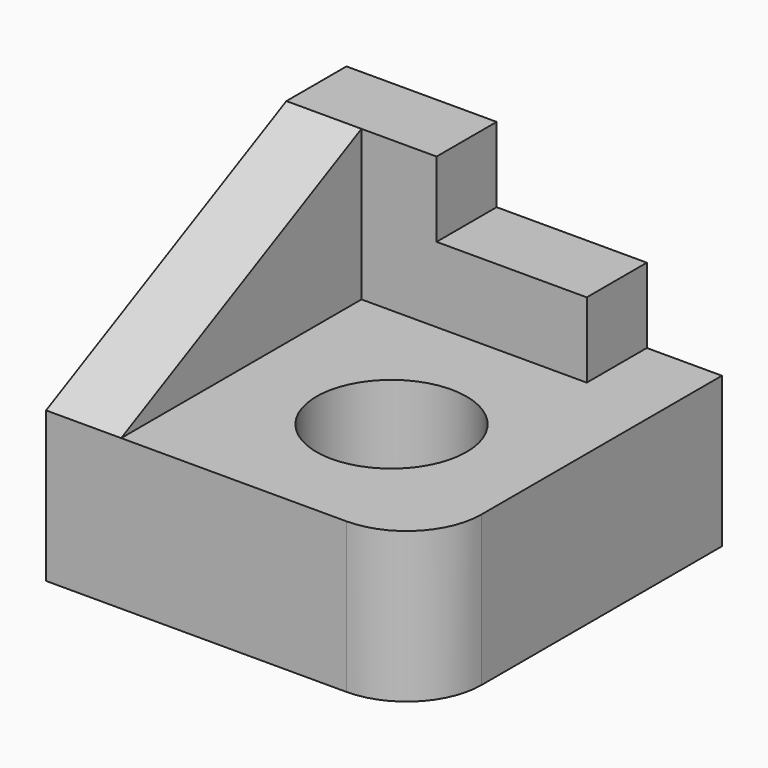
from build123d import *

# Parameters (mm, degrees)
PAD_DEPTH    = 20
PAD001_DEPTH = 10
PAD002_DEPTH = 10
SKETCH003_R  = 10
POCKET_DEPTH = 20.001


with BuildPart() as part:
    # Sketch → Pad (new body)
    with BuildSketch(Plane.XY):
        with BuildLine():
            Line((-25, -25), (-25, 25))
            Line((-25, 25), (25, 25))
            Line((25, 25), (25, -15))
            ThreePointArc((15, -25), (22.071068, -22.071068), (25, -15))
            Line((15, -25), (-25, -25))
        make_face()
    extrude(amount=PAD_DEPTH)

    # Sketch001 (on Face2 of Pad) → Pad001 (join)
    with BuildSketch(Plane(origin=(0, 25, 0), x_dir=(-1, 0, 0), z_dir=(0, 1, 0))):
        Polygon((-15, 20), (-15, 30), (5, 30), (5, 40), (25, 40), (25, 20), align=None)
    extrude(amount=-PAD001_DEPTH)

    # Sketch002 (on Face11 of Pad001) → Pad002 (join)
    with BuildSketch(Plane(origin=(-25, 0, 0), x_dir=(0, -1, 0), z_dir=(-1, 0, 0))):
        Polygon((-15, 40), (25, 20), (-15, 20), align=None)
    extrude(amount=-PAD002_DEPTH)

    # Sketch003 (on Face4 of Pad002) → Pocket (cut, through all)
    with BuildSketch(Plane.XY.offset(20)):
        with Locations((5, -5)):
            Circle(SKETCH003_R)
    extrude(amount=-POCKET_DEPTH, mode=Mode.SUBTRACT)


solid = part.part
